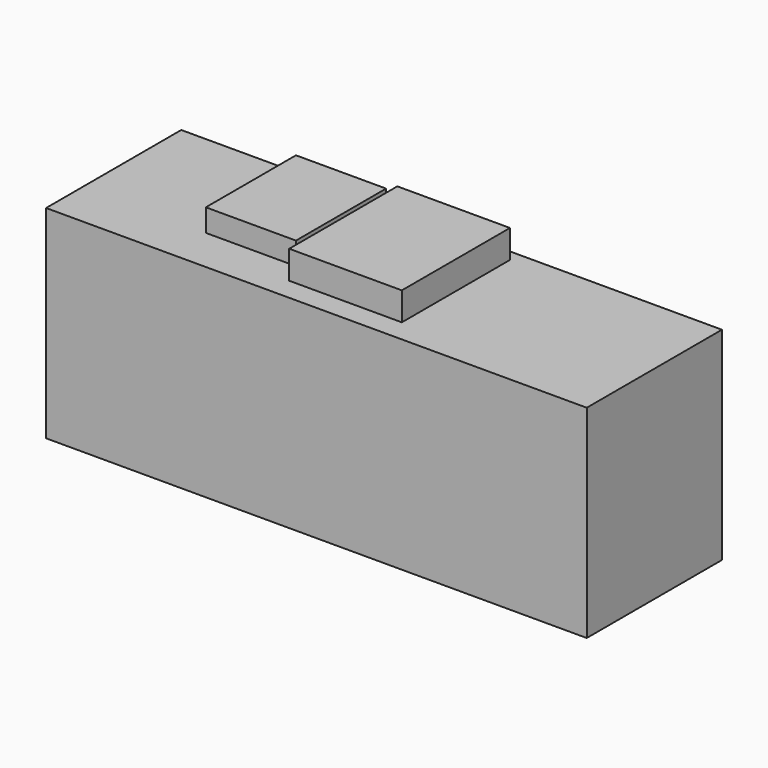
from build123d import *

# Parameters (mm, degrees)
F0_W     = 2438.4
F0_H     = 762
F1_DEPTH = 914.4
F2_W     = 508
F2_H     = 609.6
F3_DEPTH = 127
F4_W     = 406.4
F4_H     = 508
F5_DEPTH = 101.6


with BuildPart() as f1:
    # F0 (on Top) → F1 (new body)
    with BuildSketch(Plane.XY):
        with Locations((-49.920068, 381)):
            Rectangle(F0_W, F0_H)
    extrude(amount=F1_DEPTH)


with BuildPart() as f3:
    # F2 (on face) → F3 (new body)
    with BuildSketch(Plane.XY.offset(914.4)):
        with Locations((0, 406.4)):
            Rectangle(F2_W, F2_H)
    extrude(amount=F3_DEPTH)


with BuildPart() as f5:
    # F4 (on face) → F5 (new body)
    with BuildSketch(Plane.XY.offset(914.4)):
        with Locations((-508, 457.2)):
            Rectangle(F4_W, F4_H)
    extrude(amount=F5_DEPTH)


solid = Compound([f1.part, f3.part, f5.part])
